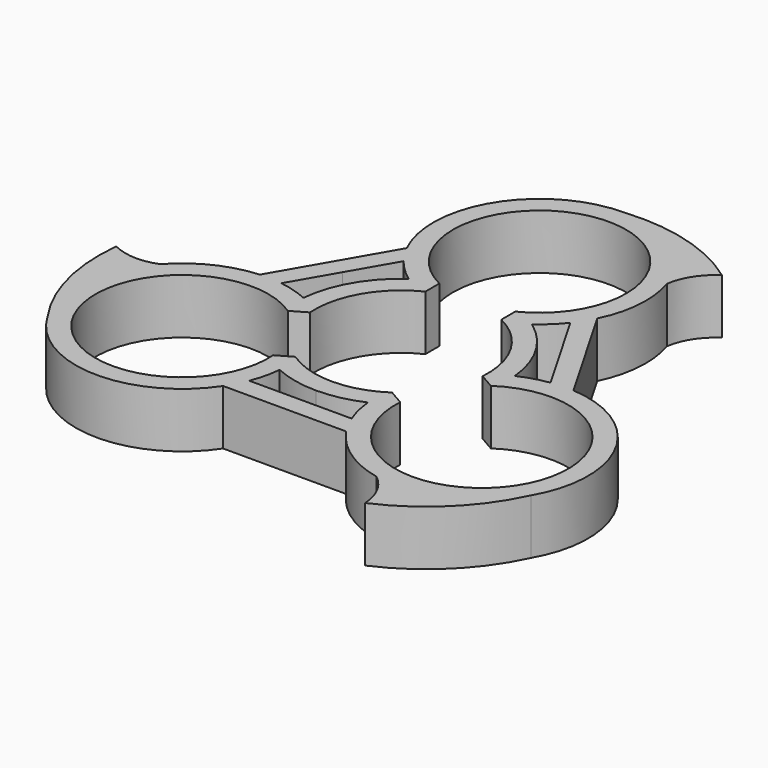
from build123d import *

# Parameters (mm, degrees)
F1_DEPTH = 7
F3_DEPTH = 7


with BuildPart() as f1:
    # F0 (on Top) → F1 (new body)
    with BuildSketch(Plane.XY):
        with BuildLine():
            Line((-13.8564064606, 8), (-10.6000951209, 13.6400966855))
            ThreePointArc((-10.6000951209, 13.6400966855), (-11.4165365305, 14.7949535985), (-12.1076766085, 16.0288889524))
            Line((-12.1076766085, 16.0288889524), (-19.9352633315, 2.4711110476))
            ThreePointArc((-19.9352633315, 2.4711110476), (-18.5210739294, 2.4895338594), (-17.1127178002, 2.3599033145))
            Line((-17.1127178002, 2.3599033145), (-13.8564064606, 8))
        make_face()
        with BuildLine():
            Line((-7.8262379212, 11), (-4.8262379212, 11))
            Line((-4.8262379212, 11), (-4.8262379212, 12.1152932503))
            ThreePointArc((-4.8262379212, 12.1152932503), (0, 33), (4.8262379212, 12.1152932503))
            Line((4.8262379212, 12.1152932503), (4.8262379212, 11))
            Line((4.8262379212, 11), (7.8262379212, 11))
            ThreePointArc((7.8262379212, 11), (9.3072533528, 12.2211946012), (10.6000951209, 13.6400966855))
            ThreePointArc((10.6000951209, 13.6400966855), (11.4165365305, 14.7949535985), (12.1076766085, 16.0288889524))
            ThreePointArc((12.1076766085, 16.0288889524), (0, 35.5), (-12.1076766085, 16.0288889524))
            ThreePointArc((-12.1076766085, 16.0288889524), (-11.4165365305, 14.7949535985), (-10.6000951209, 13.6400966855))
            ThreePointArc((-10.6000951209, 13.6400966855), (-9.3072533528, 12.2211946012), (-7.8262379212, 11))
        make_face()
        with BuildLine():
            ThreePointArc((12.1076766085, 16.0288889524), (11.4165365305, 14.7949535985), (10.6000951209, 13.6400966855))
            Line((10.6000951209, 13.6400966855), (13.8564064606, 8))
            Line((13.8564064606, 8), (17.1127178002, 2.3599033145))
            ThreePointArc((17.1127178002, 2.3599033145), (18.5210739294, 2.4895338594), (19.9352633315, 2.4711110476))
            Line((19.9352633315, 2.4711110476), (12.1076766085, 16.0288889524))
        make_face()
        with BuildLine():
            ThreePointArc((0, -11), (-3.2138778591, -10.5200279993), (-6.1472881936, -9.1219980194))
            Line((-6.1472881936, -9.1219980194), (-8.0790327684, -10.2372912697))
            ThreePointArc((-8.0790327684, -10.2372912697), (-28.5788383249, -16.5), (-12.9052706897, -1.8780019806))
            Line((-12.9052706897, -1.8780019806), (-10.9735261148, -0.7627087303))
            ThreePointArc((-10.9735261148, -0.7627087303), (-9.5262794416, 5.5), (-4.8262379212, 9.8847067497))
            Line((-4.8262379212, 9.8847067497), (-4.8262379212, 11))
            Line((-4.8262379212, 11), (-7.8262379212, 11))
            ThreePointArc((-7.8262379212, 11), (-11.6913429511, 6.75), (-13.4393984023, 1.2777208559))
            ThreePointArc((-13.4393984023, 1.2777208559), (-15.2374916656, 1.9497205423), (-17.1127178002, 2.3599033145))
            ThreePointArc((-17.1127178002, 2.3599033145), (-18.5210739294, 2.4895338594), (-19.9352633315, 2.4711110476))
            ThreePointArc((-19.9352633315, 2.4711110476), (-30.7439018343, -17.75), (-7.8275867229, -18.5))
            Line((-7.8275867229, -18.5), (7.8275867229, -18.5))
            ThreePointArc((7.8275867229, -18.5), (30.7439018343, -17.75), (19.9352633315, 2.4711110476))
            ThreePointArc((19.9352633315, 2.4711110476), (18.5210739294, 2.4895338594), (17.1127178002, 2.3599033145))
            ThreePointArc((17.1127178002, 2.3599033145), (15.2374916656, 1.9497205423), (13.4393984023, 1.2777208559))
            ThreePointArc((13.4393984023, 1.2777208559), (11.6913429511, 6.75), (7.8262379212, 11))
            Line((7.8262379212, 11), (4.8262379212, 11))
            Line((4.8262379212, 11), (4.8262379212, 9.8847067497))
            ThreePointArc((4.8262379212, 9.8847067497), (9.5262794416, 5.5), (10.9735261148, -0.7627087303))
            Line((10.9735261148, -0.7627087303), (12.9052706897, -1.8780019806))
            ThreePointArc((12.9052706897, -1.8780019806), (28.5788383249, -16.5), (8.0790327684, -10.2372912697))
            Line((8.0790327684, -10.2372912697), (6.1472881936, -9.1219980194))
            ThreePointArc((6.1472881936, -9.1219980194), (3.2138778591, -10.5200279993), (0, -11))
        make_face()
        with BuildLine():
            ThreePointArc((-5.613160481, -12.2777208559), (-2.8723482071, -13.1908913943), (0, -13.5))
            ThreePointArc((0, -13.5), (2.8723482071, -13.1908913943), (5.613160481, -12.2777208559))
            ThreePointArc((5.613160481, -12.2777208559), (5.9302383129, -14.1709151435), (6.5126226793, -16))
            Line((6.5126226793, -16), (0, -16))
            Line((0, -16), (-6.5126226793, -16))
            ThreePointArc((-6.5126226793, -16), (-5.9302383129, -14.1709151435), (-5.613160481, -12.2777208559))
        make_face(mode=Mode.SUBTRACT)
    extrude(amount=F1_DEPTH)

    # F2 (on face) → F3 (join)
    with BuildSketch(Plane.XY.offset(7)):
        with BuildLine():
            ThreePointArc((12.8426779045, 26.1612046623), (13.8763872298, 28.9318631067), (15.9538742155, 31.0364179313))
            ThreePointArc((15.9538742155, 31.0364179313), (8.3843737037, 34.7244815518), (0, 35.5))
            ThreePointArc((0, 35.5), (7.9395760926, 32.9184766094), (12.8426779045, 26.1612046623))
        make_face()
        with BuildLine():
            ThreePointArc((-30.7439018343, -17.75), (-32.4780250439, -9.5833637133), (-29.0776067834, -1.9585170132))
            ThreePointArc((-29.0776067834, -1.9585170132), (-31.9939220442, -2.4486276996), (-34.8552634787, -1.7017486063))
            ThreePointArc((-34.8552634787, -1.7017486063), (-34.264470009, -10.1011601537), (-30.7439018343, -17.75))
        make_face()
        with BuildLine():
            ThreePointArc((18.9013892633, -29.334669325), (25.8800963053, -24.6233213981), (30.7439018343, -17.75))
            ThreePointArc((30.7439018343, -17.75), (24.5384489513, -23.3351128962), (16.2349288789, -24.202687649))
            ThreePointArc((16.2349288789, -24.2026876491), (18.1175348143, -26.4832354072), (18.9013892633, -29.334669325))
        make_face()
    extrude(amount=-F3_DEPTH)


solid = f1.part
